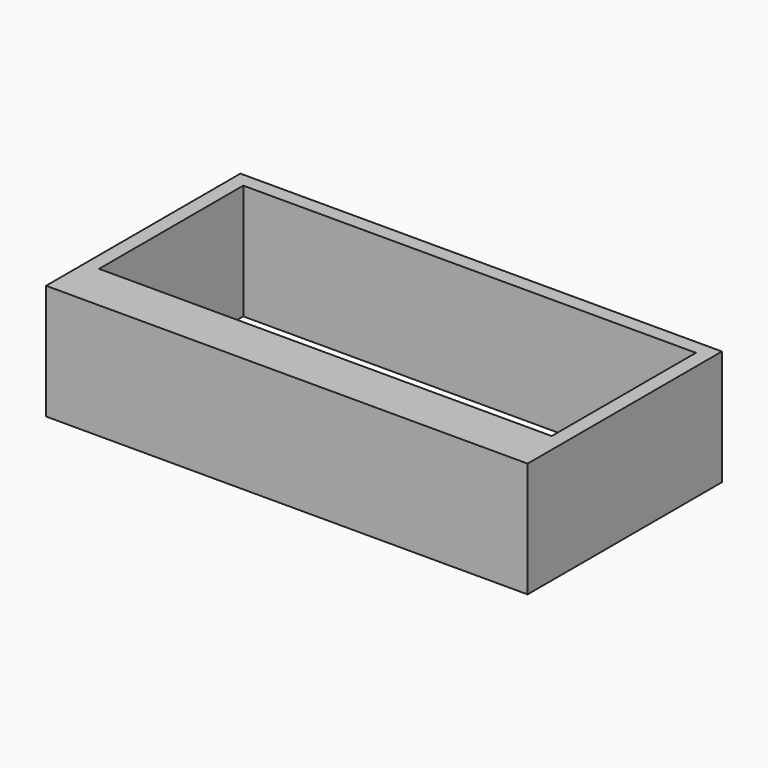
from build123d import *

# Parameters (mm, degrees)
F0_W     = 9395
F0_H     = 3741.72873
F1_DEPTH = 2390
F2_W     = 3362.581372
F2_H     = 1138.33487
F3_DEPTH = 990


with BuildPart() as f1:
    # F0 (on Top) → F1 (new body)
    with BuildSketch(Plane.XY):
        Polygon((4997.547843, 2519.055557), (4697.547843, 2519.055557), (-4997.452157, 2519.055557), (-4997.452157, -1522.673173), (-4997.452157, -2522.673173), (4997.547843, -2522.673173), align=None)
        with Locations((0.047843, 348.191192)):
            Rectangle(F0_W, F0_H, mode=Mode.SUBTRACT)
    extrude(amount=F1_DEPTH)

    # F2 (on face) → F3 (join)
    with BuildSketch(Plane.XZ.offset(2522.673173)):
        with Locations((35.699904, 1213.66781)):
            Rectangle(F2_W, F2_H)
    extrude(amount=-F3_DEPTH)


solid = f1.part
